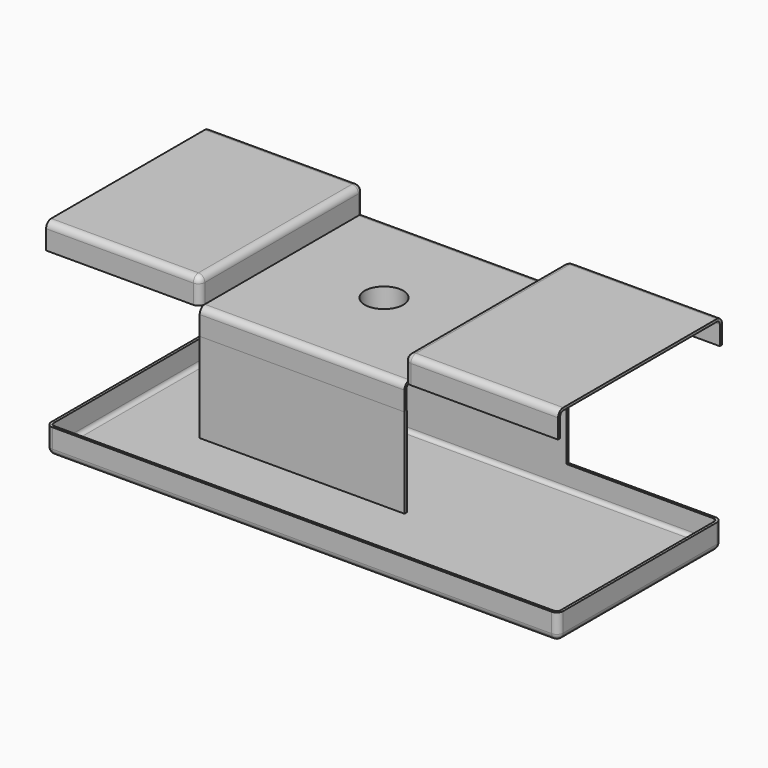
from build123d import *

# Parameters (mm, degrees)
F1_DEPTH      = 101.6
F1_DEPTH_BACK = 101.6
F2_R          = 19.05
F3_DEPTH      = 25.4
F4_R          = 6.35
F6_DEPTH      = 152.4
F7_R          = 6.35
F9_W          = 508
F9_H          = 203.2
F10_DEPTH     = 25.4
F11_R         = 6.35
F12_T         = -3.175
F13_T         = -2.54
F14_T         = -2.54
F15_W         = 203.2
F15_H         = 88.9
F16_DEPTH     = 3.175


with BuildPart() as f1:
    # F0 (on Right) → F1 (new body, two sides)
    with BuildSketch(Plane.YZ) as f1_sk:
        Polygon((0, 127), (0, 0), (25.4, 0), (25.4, 152.4), (-177.8, 152.4), (-177.8, 127), align=None)
    extrude(amount=-F1_DEPTH)
    extrude(f1_sk.sketch, amount=F1_DEPTH_BACK)

    # F2 (on face) → F3 (cut)
    with BuildSketch(Plane.XY.offset(152.4)):
        with Locations((0, -76.2)):
            Circle(F2_R)
    extrude(amount=-F3_DEPTH, mode=Mode.SUBTRACT)

    # F4
    f4_edges = [f1.edges().sort_by_distance(p)[0] for p in [
        (0, 25.4, 152.4),
        (0, -177.8, 152.4),
    ]]
    fillet(f4_edges, radius=F4_R)

    # F9 (on face) → F10 (join)
    with BuildSketch(Plane(origin=(0, 0, 0), x_dir=(1, 0, 0), z_dir=(0, 0, -1))):
        with Locations((0, 76.2)):
            Rectangle(F9_W, F9_H)
    extrude(amount=F10_DEPTH)

    # F11
    f11_edges = [f1.edges().sort_by_distance(p)[0] for p in [
        (-254, -177.8, -12.7),
        (0, -177.8, -25.4),
        (254, -177.8, -12.7),
        (254, -76.2, -25.4),
        (254, 25.4, -12.7),
        (0, 25.4, -25.4),
        (-254, -76.2, -25.4),
        (-254, 25.4, -12.7),
    ]]
    fillet(f11_edges, radius=F11_R)

    # F14
    f14_openings = [f1.faces().sort_by_distance(p)[0] for p in [
        (0, -80.880599, 0),
        (0, 0, 63.5),
        (-98.899943, -88.9, 127),
        (-101.6, 22.86, 73.025),
        (101.6, 22.86, 73.025),
    ]]
    offset(amount=F14_T, openings=f14_openings)


with BuildPart() as f6:
    # F5 (on face) → F6 (new body)
    with BuildSketch(Plane(origin=(-101.6, 0, 0), x_dir=(0, -1, 0), z_dir=(-1, 0, 0))):
        Polygon((171.45, 152.4), (177.8, 152.4), (177.8, 177.8), (-25.4, 177.8), (-25.4, 152.4), (-19.05, 152.4), align=None)
    extrude(amount=F6_DEPTH)

    # F7
    f7_edges = [f6.edges().sort_by_distance(p)[0] for p in [
        (-101.6, 25.4, 165.1),
        (-101.6, -76.2, 177.8),
        (-177.8, 25.4, 177.8),
        (-177.8, -177.8, 177.8),
        (-101.6, -177.8, 165.1),
    ]]
    fillet(f7_edges, radius=F7_R)


with BuildPart() as f8_1:
    # F8: instance of F6
    add(f6.part.mirror(Plane.YZ))

    # F13
    f13_openings = [f8_1.faces().sort_by_distance(p)[0] for p in [
        (254, -76.2, 165.062044),
        (177.841816, -76.2, 152.4),
    ]]
    offset(amount=F13_T, openings=f13_openings)


with BuildPart() as f6_1:
    add(f6.part)

    # F12
    f12_openings = [f6_1.faces().sort_by_distance(p)[0] for p in [
        (-254, -76.2, 165.062044),
        (-177.841816, -76.2, 152.4),
    ]]
    offset(amount=F12_T, openings=f12_openings)


with BuildPart() as f16:
    # F15 (on face) → F16 (new body)
    with BuildSketch(Plane.XZ.offset(177.8)):
        with Locations((0, 82.55)):
            Rectangle(F15_W, F15_H)
    extrude(amount=-F16_DEPTH)


solid = Compound([f1.part, f8_1.part, f6_1.part, f16.part])
